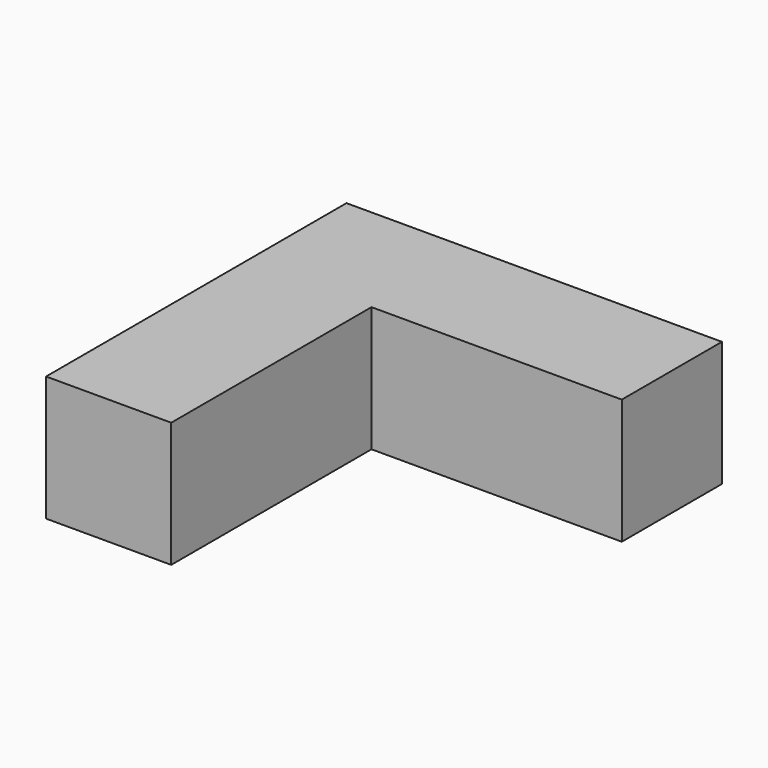
from build123d import *

# Parameters (mm, degrees)
F0_W      = 19.05
F0_H      = 19.05
F1_DEPTH  = 19.05
F1_FACE_W = 19.05
F1_FACE_H = 19.05
F2_DEPTH  = 38.1
F3_W      = 19.05
F3_H      = 19.05
F4_DEPTH  = 38.1


with BuildPart() as f1:
    # F0 (on Top) → F1 (new body)
    with BuildSketch(Plane.XY):
        with Locations((9.525, -9.525)):
            Rectangle(F0_W, F0_H)
    extrude(amount=F1_DEPTH)

    # F1_face (on face) → F2 (join)
    with BuildSketch(Plane(origin=(9.525, -19.05, 9.525), x_dir=(1, 0, 0), z_dir=(0, -1, 0))):
        Rectangle(F1_FACE_W, F1_FACE_H)
    extrude(amount=F2_DEPTH)

    # F3 (on face) → F4 (join)
    with BuildSketch(Plane.YZ.offset(19.05)):
        with Locations((-9.525, 9.525)):
            Rectangle(F3_W, F3_H)
    extrude(amount=F4_DEPTH)


solid = f1.part
